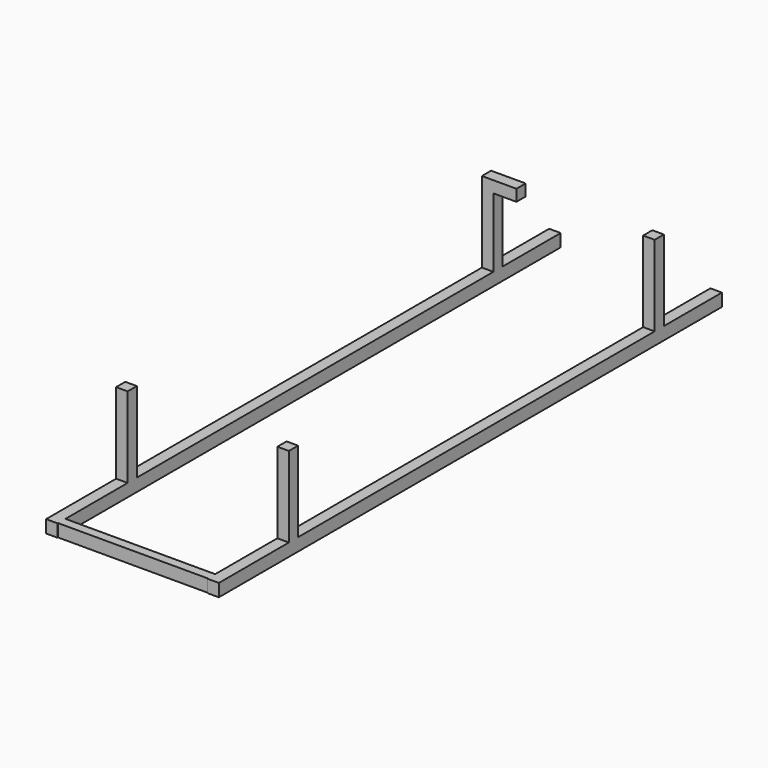
from build123d import *

# Parameters (mm, degrees)
F0_W     = 100
F0_H     = 5700
F1_DEPTH = 110
F2_W     = 80
F2_H     = 110
F3_DEPTH = 1350
F4_W     = 100
F4_H     = 100
F5_DEPTH = 700
F6_DEPTH = 240
F7_W     = 100
F7_H     = 100
F8_DEPTH = 200


with BuildPart() as f1:
    # F0 (on Top) → F1 (new body)
    with BuildSketch(Plane.XY):
        with Locations((700, 0)):
            Rectangle(F0_W, F0_H)
    extrude(amount=F1_DEPTH)



with BuildPart() as f1b:
    # F0 (on Top) → F1, piece 2 (new body)
    with BuildSketch(Plane.XY):
        with Locations((-700, 0)):
            Rectangle(F0_W, F0_H)
    extrude(amount=F1_DEPTH)


with BuildPart() as f1_1:
    add(f1.part)

    add(f1b.part)  # F3 merges F1b
    # F2 (on face) → F3 (join)
    with BuildSketch(Plane.YZ.offset(-650)):
        with Locations((-2564.6993732452, 55)):
            Rectangle(F2_W, F2_H)
    extrude(amount=F3_DEPTH)

    # F4 (on face) → F5 (join)
    with BuildSketch(Plane.XY.offset(110)):
        with Locations((700, -1800)):
            Rectangle(F4_W, F4_H)
        with Locations((700, 2170)):
            Rectangle(F4_W, F4_H)
        with Locations((-700, -1800)):
            Rectangle(F4_W, F4_H)
        with Locations((-700, 2170)):
            Rectangle(F4_W, F4_H)
    extrude(amount=F5_DEPTH)

    # F6 (cut): faces of the model
    f6_faces = [f1_1.faces().sort_by_distance(p)[0] for p in [
        (700, -2850, 55),
        (-700, -2850, 55),
    ]]
    extrude(f6_faces, amount=-F6_DEPTH, mode=Mode.SUBTRACT)

    # F7 (on face) → F8 (join)
    with BuildSketch(Plane.YZ.offset(-650)):
        with Locations((2170, 760)):
            Rectangle(F7_W, F7_H)
    extrude(amount=F8_DEPTH)


solid = f1_1.part
